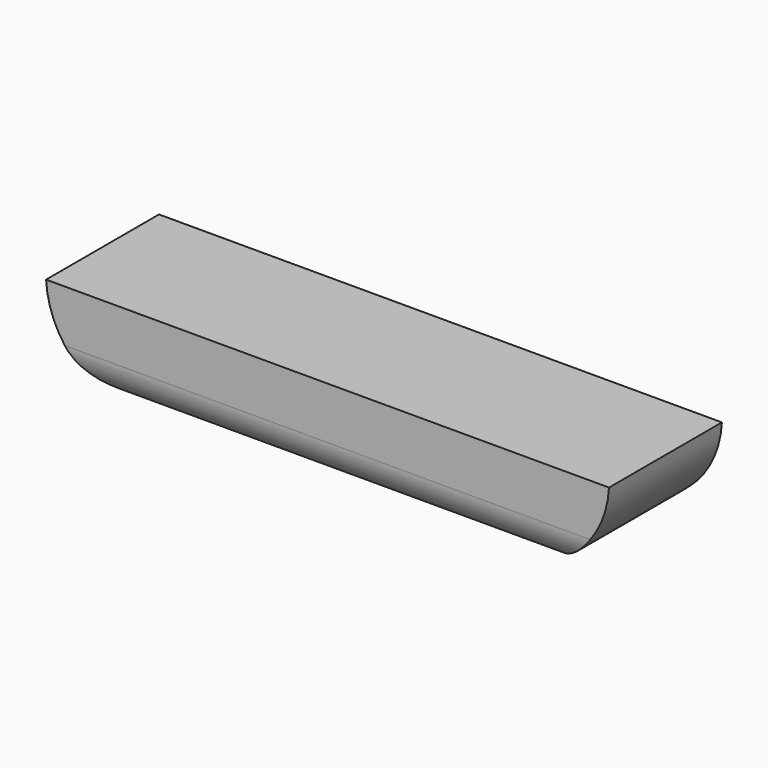
from build123d import *

# Parameters (mm, degrees)
F1_DEPTH = 19.05
F2_R     = 5.08


with BuildPart() as f1:
    # F0 (on Front) → F1 (new body)
    with BuildSketch(Plane.XZ):
        with BuildLine():
            Line((24.751294, 18.131763), (-51.229425, 18.131763))
            ThreePointArc((-51.229425, 18.131763), (-47.906954, 10.146368), (-40.292805, 6.043921))
            Line((-40.292805, 6.043921), (13.814675, 6.043921))
            ThreePointArc((13.814675, 6.043921), (21.428824, 10.146368), (24.751294, 18.131763))
        make_face()
    extrude(amount=F1_DEPTH)

    # F2
    f2_edges = [f1.edges().sort_by_distance(p)[0] for p in [
        (13.814675, -9.525, 6.043921),
        (-13.239065, 0, 6.043921),
        (-13.239065, -19.05, 6.043921),
    ]]
    fillet(f2_edges, radius=F2_R)


solid = f1.part
